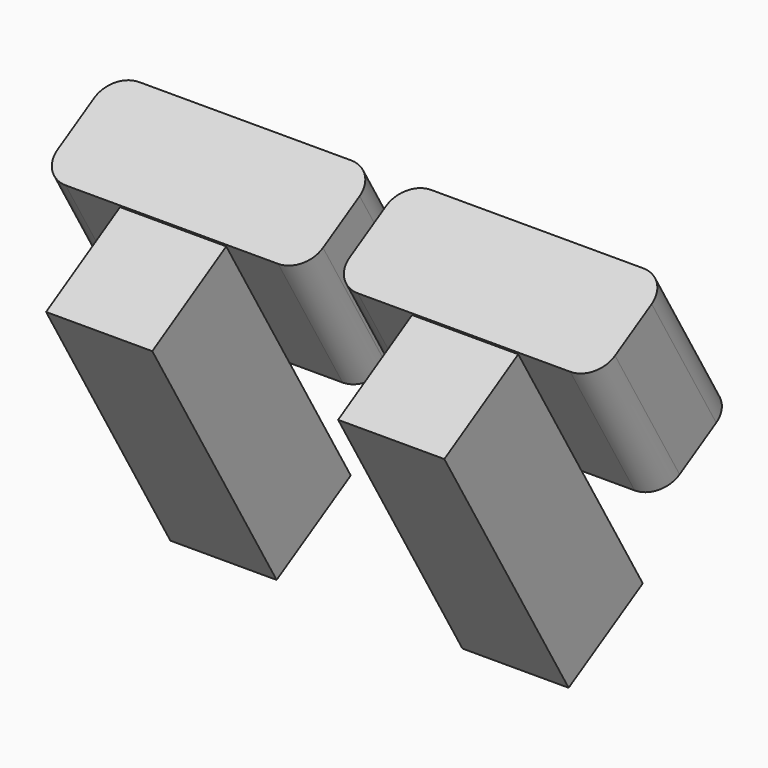
from build123d import *

# Parameters (mm, degrees)
PAD001_DEPTH     = 1
SKETCH004_W      = 3
SKETCH004_H      = 5
PAD002_DEPTH     = 2
FILLET001_R      = 0.5
ARRAY002_X_COUNT = 2
ARRAY002_X_PITCH = 5.5


with BuildPart() as part:
    # Sketch003 → Pad001 (new body, symmetric)
    with BuildSketch(Plane.YZ):
        Polygon((-7.266909, 14.524997), (-5.526454, 15.554562), (-2.594869, 10.564109), (-4.340023, 9.542529), align=None)
    extrude(amount=PAD001_DEPTH, both=True)

    # Sketch004 (on Face2 of Pad001) → Pad002 (join)
    with BuildSketch(Plane(origin=(0, 2.684515, 1.576988), x_dir=(0, -0.50651, 0.862234), z_dir=(0, 0.862234, 0.50651))):
        with Locations((14.765707, 0)):
            Rectangle(SKETCH004_W, SKETCH004_H)
    extrude(amount=PAD002_DEPTH)

    # Fillet001
    fillet001_edges = [part.edges().sort_by_distance(p)[0] for p in [
        (-2.5, -3.069992, 15.321505),
        (2.5, -3.069992, 15.321505),
        (-2.5, -4.79446, 14.308486),
        (2.5, -4.79446, 14.308486),
    ]]
    fillet(fillet001_edges, radius=FILLET001_R)

    # Array002 X: part ×2


with BuildPart() as part_1:
    add(part.part)
    with Locations(*[(-i * ARRAY002_X_PITCH, 0, 0) for i in range(1, ARRAY002_X_COUNT)]):
        add(part.part)


solid = part_1.part
